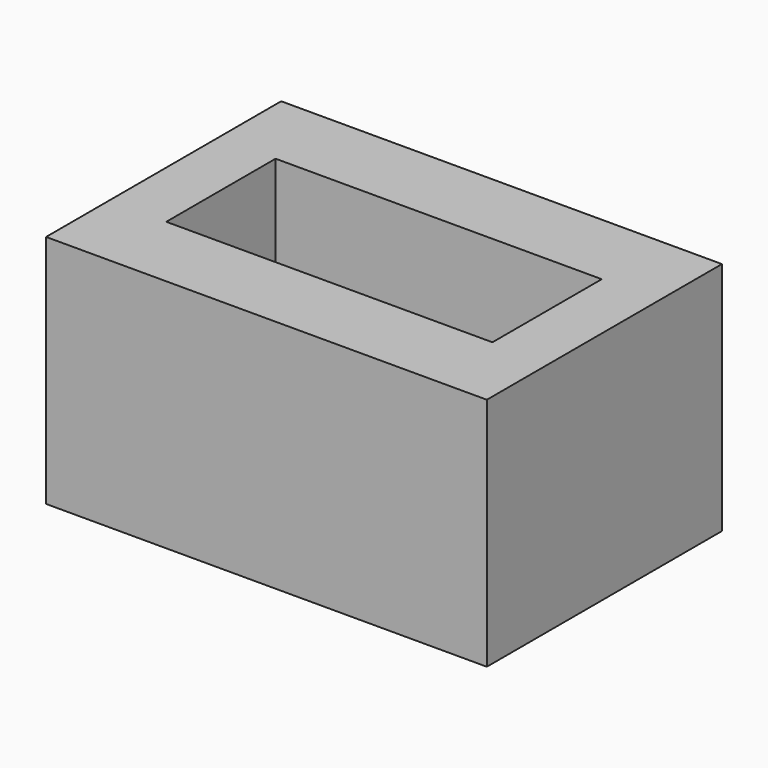
from build123d import *

# Parameters (mm, degrees)
F0_W     = 30
F0_H     = 20
F0_W_2   = 22.2
F0_H_2   = 9.3
F1_DEPTH = 11.5
F2_W     = 30
F2_H     = 20
F2_R     = 1.5
F3_DEPTH = 4.5


with BuildPart() as f1:
    # F0 (on Top) → F1 (new body)
    with BuildSketch(Plane.XY):
        Rectangle(F0_W, F0_H)
        Rectangle(F0_W_2, F0_H_2, mode=Mode.SUBTRACT)
    extrude(amount=F1_DEPTH)

    # F2 (on Top) → F3 (join)
    with BuildSketch(Plane.XY):
        Rectangle(F2_W, F2_H)
        with Locations((-3.75, 0)):
            Circle(F2_R, mode=Mode.SUBTRACT)
        with Locations((3.75, 0)):
            Circle(F2_R, mode=Mode.SUBTRACT)
    extrude(amount=-F3_DEPTH)


solid = f1.part
